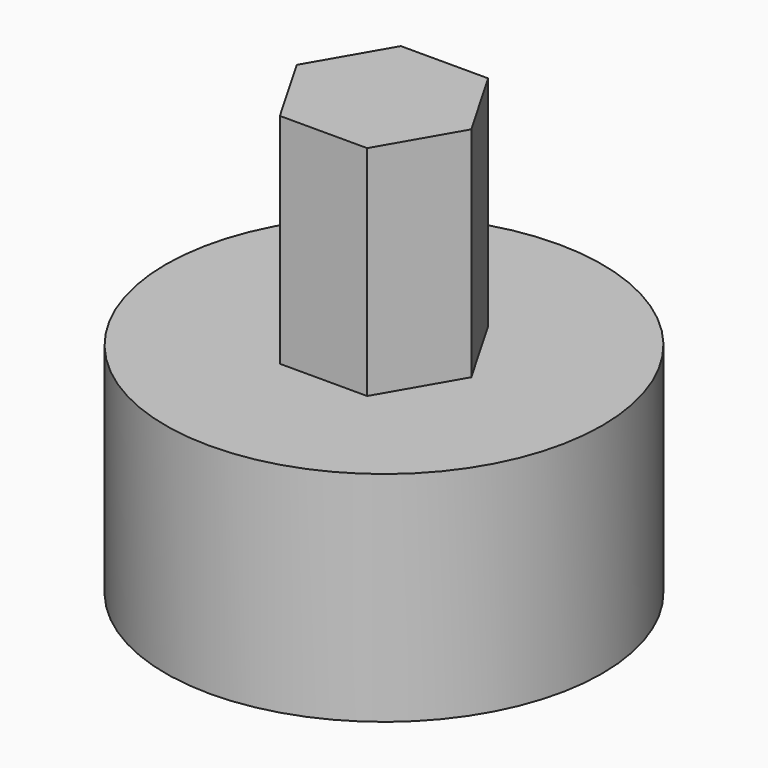
from build123d import *

# Parameters (mm, degrees)
CYLINDER_R     = 5
CYLINDER_DEPTH = 5
PRISM_DEPTH    = 10


with BuildPart() as cylinder:
    # Cylinder → Cylinder (new body)
    with BuildSketch(Plane.XY):
        Circle(CYLINDER_R)
    extrude(amount=CYLINDER_DEPTH)


with BuildPart() as prism:
    # Prism → Prism (new body)
    with BuildSketch(Plane.XY):
        Polygon((2, 0), (1, 1.732051), (-1, 1.732051), (-2, 0), (-1, -1.732051), (1, -1.732051), align=None)
    extrude(amount=PRISM_DEPTH)


solid = Compound([cylinder.part, prism.part])
